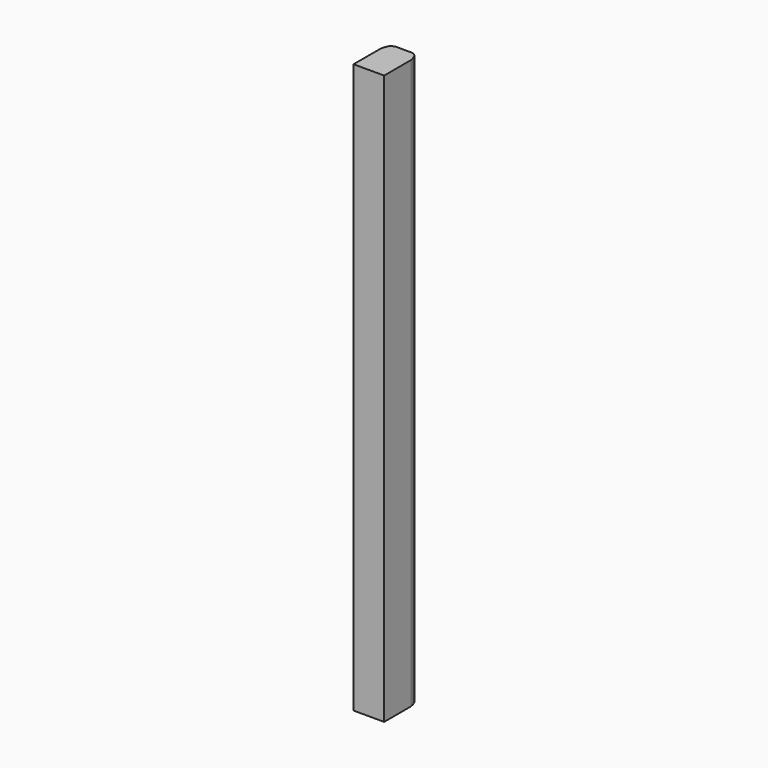
from build123d import *

# Parameters (mm, degrees)
F0_W     = 35
F0_H     = 50
F1_DEPTH = 650
F2_SIZE  = 6
F3_SIZE  = 4
F4_SIZE  = 2
F5_SIZE  = 2


with BuildPart() as f1:
    # F0 (on Top) → F1 (new body)
    with BuildSketch(Plane.XY):
        Rectangle(F0_W, F0_H)
    extrude(amount=F1_DEPTH)

    # F2
    f2_edges = [f1.edges().sort_by_distance(p)[0] for p in [
        (-17.5, 25, 325),
        (17.5, 25, 325),
    ]]
    chamfer(f2_edges, length=F2_SIZE)

    # F3
    f3_edges = [f1.edges().sort_by_distance(p)[0] for p in [
        (-17.5, 19, 325),
        (17.5, 19, 325),
    ]]
    chamfer(f3_edges, length=F3_SIZE)

    # F4
    f4_edges = [f1.edges().sort_by_distance(p)[0] for p in [
        (-11.5, 25, 325),
        (11.5, 25, 325),
    ]]
    chamfer(f4_edges, length=F4_SIZE)

    # F5
    f5_edges = [f1.edges().sort_by_distance(p)[0] for p in [
        (-17.5, 15, 325),
        (17.5, 15, 325),
    ]]
    chamfer(f5_edges, length=F5_SIZE)


solid = f1.part
